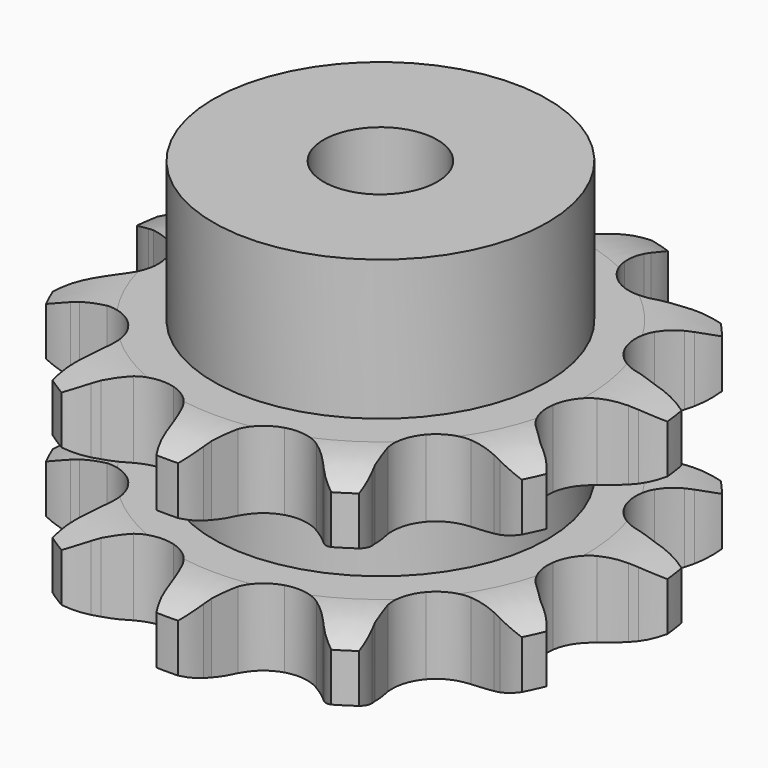
from build123d import *

# Parameters (mm, degrees)
PAD_DEPTH         = 30.3
SKETCH001_R       = 23.5
PAD001_DEPTH      = 50
SKETCH002_R       = 8
POCKET_DEPTH      = 0.001
POCKET_DEPTH_BACK = 50.001


with BuildPart() as part:
    # Sprocket → Pad (new body)
    with BuildSketch(Plane.XY):
        with BuildLine():
            ThreePointArc((-11.137083, 37.929422), (-8.841993, 36.141003), (-7.143232, 33.778781))
            Line((-7.143232, 33.778781), (-6.625418, 32.785992))
            ThreePointArc((-6.625418, 32.785992), (-5.717578, 31.261428), (-4.64411, 29.848582))
            ThreePointArc((-4.64411, 29.848582), (-2.557394, 28.267026), (0, 27.705384))
            ThreePointArc((0, 27.705384), (2.557394, 28.267026), (4.64411, 29.848582))
            ThreePointArc((4.64411, 29.848582), (5.717578, 31.261428), (6.625418, 32.785992))
            Line((6.625418, 32.785992), (7.143232, 33.778781))
            ThreePointArc((7.143232, 33.778781), (8.841993, 36.141003), (11.137083, 37.929422))
            ThreePointArc((11.137083, 37.929422), (12.100944, 35.184089), (12.252918, 32.278442))
            Line((12.252918, 32.278442), (12.151789, 31.163303))
            ThreePointArc((12.151789, 31.163303), (12.091271, 29.389943), (12.230488, 27.621021))
            ThreePointArc((12.230488, 27.621021), (13.130891, 25.162367), (14.978662, 23.307252))
            ThreePointArc((14.978662, 23.307252), (17.433725, 22.397104), (20.044236, 22.59943))
            Line((20.044236, 22.59943), (23.299101, 23.99936))
            ThreePointArc((23.299101, 23.99936), (23.780346, 24.285617), (24.271457, 24.554596))
            ThreePointArc((24.271457, 24.554596), (26.977659, 25.623404), (29.875304, 25.887098))
            ThreePointArc((29.875304, 25.887098), (29.201916, 23.056475), (27.758854, 20.529925))
            Line((27.758854, 20.529925), (27.070889, 19.646485))
            ThreePointArc((27.070889, 19.646485), (26.061227, 18.187359), (25.221992, 16.62398))
            ThreePointArc((25.221992, 16.62398), (24.650211, 14.068834), (25.201704, 11.509233))
            ThreePointArc((25.201704, 11.509233), (26.774971, 9.41626), (29.080458, 8.175118))
            Line((29.080458, 8.175118), (32.575485, 7.593101))
            ThreePointArc((32.575485, 7.593101), (33.135096, 7.573735), (33.693666, 7.5345))
            ThreePointArc((33.693666, 7.5345), (36.548109, 6.970556), (39.128327, 5.625804))
            ThreePointArc((39.128327, 5.625804), (37.031487, 3.608593), (34.451549, 2.263303))
            Line((34.451549, 2.263303), (33.395173, 1.892047))
            ThreePointArc((33.395173, 1.892047), (31.756928, 1.210417), (30.205692, 0.348943))
            ThreePointArc((30.205692, 0.348943), (28.343263, -1.491454), (27.423383, -3.942887))
            ThreePointArc((27.423383, -3.942887), (27.615353, -6.55418), (28.883841, -8.844736))
            Line((28.883841, -8.844736), (31.509382, -11.223914))
            ThreePointArc((31.509382, -11.223914), (31.969687, -11.542754), (32.418374, -11.877746))
            ThreePointArc((32.418374, -11.877746), (34.514793, -13.895395), (35.958383, -16.421643))
            ThreePointArc((35.958383, -16.421643), (33.103822, -16.984992), (30.206122, -16.721902))
            Line((30.206122, -16.721902), (29.116725, -16.463102))
            ThreePointArc((29.116725, -16.463102), (27.370028, -16.150824), (25.599298, -16.03688))
            ThreePointArc((25.599298, -16.03688), (23.037529, -16.578216), (20.938332, -18.143168))
            ThreePointArc((20.938332, -18.143168), (19.688056, -20.443715), (19.516808, -23.056449))
            Line((19.516808, -23.056449), (20.439274, -26.477415))
            ThreePointArc((20.439274, -26.477415), (20.654128, -26.9945), (20.850477, -27.518892))
            ThreePointArc((20.850477, -27.518892), (21.523274, -30.349656), (21.371906, -33.255335))
            ThreePointArc((21.371906, -33.255335), (18.665927, -32.185961), (16.370464, -30.398022))
            Line((16.370464, -30.398022), (15.593923, -29.591333))
            ThreePointArc((15.593923, -29.591333), (14.293338, -28.384292), (12.865308, -27.331108))
            ThreePointArc((12.865308, -27.331108), (10.417543, -26.401511), (7.805509, -26.583121))
            ThreePointArc((7.805509, -26.583121), (5.50994, -27.842514), (3.953327, -29.947902))
            Line((3.953327, -29.947902), (2.87984, -33.324525))
            ThreePointArc((2.87984, -33.324525), (2.781029, -33.875683), (2.662701, -34.422984))
            ThreePointArc((2.662701, -34.422984), (1.698267, -37.168116), (0, -39.530693))
            ThreePointArc((0, -39.530693), (-1.698267, -37.168116), (-2.662701, -34.422984))
            Line((-2.662701, -34.422984), (-2.87984, -33.324525))
            ThreePointArc((-2.87984, -33.324525), (-3.321386, -31.605948), (-3.953327, -29.947902))
            ThreePointArc((-3.953327, -29.947902), (-5.50994, -27.842514), (-7.805509, -26.583121))
            ThreePointArc((-7.805509, -26.583121), (-10.417543, -26.401511), (-12.865308, -27.331108))
            Line((-12.865308, -27.331108), (-15.593923, -29.591333))
            ThreePointArc((-15.593923, -29.591333), (-15.975026, -30.001576), (-16.370464, -30.398022))
            ThreePointArc((-16.370464, -30.398022), (-18.665927, -32.185961), (-21.371906, -33.255335))
            ThreePointArc((-21.371906, -33.255335), (-21.523274, -30.349656), (-20.850477, -27.518892))
            Line((-20.850477, -27.518892), (-20.439274, -26.477415))
            ThreePointArc((-20.439274, -26.477415), (-19.881593, -24.792939), (-19.516808, -23.056449))
            ThreePointArc((-19.516808, -23.056449), (-19.688056, -20.443715), (-20.938332, -18.143168))
            ThreePointArc((-20.938332, -18.143168), (-23.037529, -16.578216), (-25.599298, -16.03688))
            Line((-25.599298, -16.03688), (-29.116725, -16.463102))
            ThreePointArc((-29.116725, -16.463102), (-29.659124, -16.602181), (-30.206122, -16.721902))
            ThreePointArc((-30.206122, -16.721902), (-33.103822, -16.984992), (-35.958383, -16.421643))
            ThreePointArc((-35.958383, -16.421643), (-34.514793, -13.895395), (-32.418374, -11.877746))
            Line((-32.418374, -11.877746), (-31.509382, -11.223914))
            ThreePointArc((-31.509382, -11.223914), (-30.129535, -10.108347), (-28.883841, -8.844736))
            ThreePointArc((-28.883841, -8.844736), (-27.615353, -6.55418), (-27.423383, -3.942887))
            ThreePointArc((-27.423383, -3.942887), (-28.343263, -1.491454), (-30.205692, 0.348943))
            Line((-30.205692, 0.348943), (-33.395173, 1.892047))
            ThreePointArc((-33.395173, 1.892047), (-33.92666, 2.06829), (-34.451549, 2.263303))
            ThreePointArc((-34.451549, 2.263303), (-37.031487, 3.608593), (-39.128327, 5.625804))
            ThreePointArc((-39.128327, 5.625804), (-36.548109, 6.970556), (-33.693666, 7.5345))
            Line((-33.693666, 7.5345), (-32.575485, 7.593101))
            ThreePointArc((-32.575485, 7.593101), (-30.811563, 7.785574), (-29.080458, 8.175118))
            ThreePointArc((-29.080458, 8.175118), (-26.774971, 9.41626), (-25.201704, 11.509233))
            ThreePointArc((-25.201704, 11.509233), (-24.650211, 14.068834), (-25.221992, 16.62398))
            Line((-25.221992, 16.62398), (-27.070889, 19.646485))
            ThreePointArc((-27.070889, 19.646485), (-27.42272, 20.082093), (-27.758854, 20.529925))
            ThreePointArc((-27.758854, 20.529925), (-29.201916, 23.056475), (-29.875304, 25.887098))
            ThreePointArc((-29.875304, 25.887098), (-26.977659, 25.623404), (-24.271457, 24.554596))
            Line((-24.271457, 24.554596), (-23.299101, 23.99936))
            ThreePointArc((-23.299101, 23.99936), (-21.711137, 23.20763), (-20.044236, 22.59943))
            ThreePointArc((-20.044236, 22.59943), (-17.433725, 22.397104), (-14.978662, 23.307252))
            ThreePointArc((-14.978662, 23.307252), (-13.130891, 25.162367), (-12.230488, 27.621021))
            Line((-12.230488, 27.621021), (-12.151789, 31.163303))
            ThreePointArc((-12.151789, 31.163303), (-12.212261, 31.719974), (-12.252918, 32.278442))
            ThreePointArc((-12.252918, 32.278442), (-12.100944, 35.184089), (-11.137083, 37.929422))
        make_face()
    extrude(amount=PAD_DEPTH)

    # Sketch → Groove (revolve, cut)
    with BuildSketch(Plane.XZ):
        with BuildLine():
            ThreePointArc((29.014719, 0), (33.373618, 0.506758), (37.5, 2))
            Line((37.5, 2), (37.5, 8.8))
            ThreePointArc((37.5, 8.8), (33.373618, 10.293242), (29.014719, 10.8))
            Line((23.5, 10.8), (29.014719, 10.8))
            Line((23.5, 19.5), (23.5, 10.8))
            Line((29.014719, 19.5), (23.5, 19.5))
            ThreePointArc((29.014719, 19.5), (33.373618, 20.006758), (37.5, 21.5))
            Line((37.5, 21.5), (37.5, 28.3))
            ThreePointArc((37.5, 28.3), (33.373618, 29.793242), (29.014719, 30.3))
            Line((29.014719, 30.3), (47.5, 30.3))
            Line((47.5, 30.3), (47.5, 0))
            Line((29.014719, 0), (47.5, 0))
        make_face()
    revolve(axis=Axis((0, 0, 0), (0, 0, 1)), mode=Mode.SUBTRACT)

    # Sketch001 → Pad001 (join)
    with BuildSketch(Plane.XY):
        Circle(SKETCH001_R)
    extrude(amount=PAD001_DEPTH)

    # Sketch002 → Pocket (cut, two sides)
    with BuildSketch(Plane.XY) as pocket_sk:
        Circle(SKETCH002_R)
    extrude(amount=-POCKET_DEPTH, mode=Mode.SUBTRACT)
    extrude(pocket_sk.sketch, amount=POCKET_DEPTH_BACK, mode=Mode.SUBTRACT)


solid = part.part
